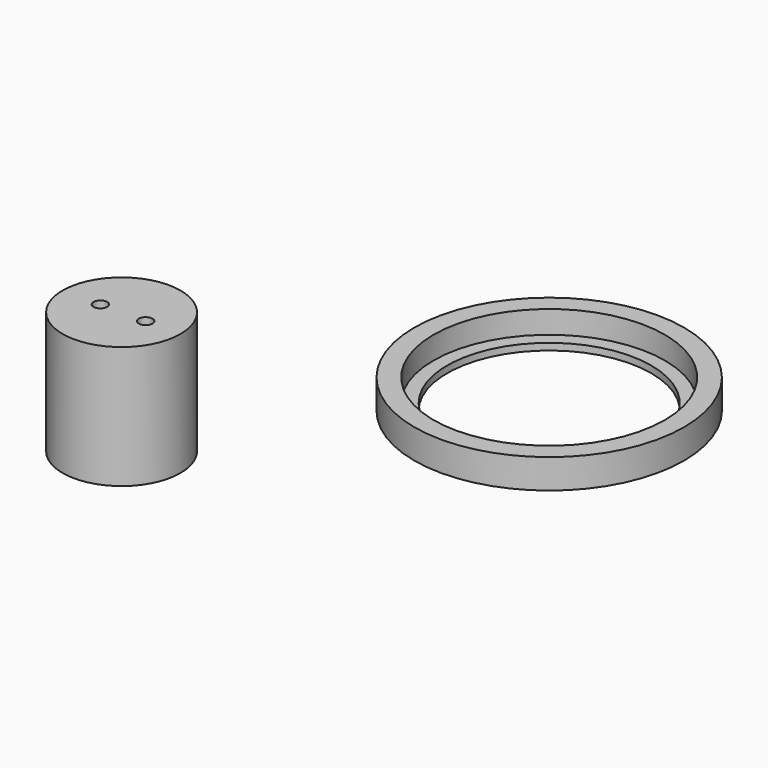
from build123d import *

# Parameters (mm, degrees)
F0_R     = 29.75
F0_R_2   = 22.5
F1_DEPTH = 1.5
F2_R     = 29.75
F2_R_2   = 25.5
F3_DEPTH = 5
F4_R     = 13
F4_R_2   = 11.3
F5_DEPTH = 25
F6_R     = 13
F7_DEPTH = 2
F8_R     = 1.5
F9_DEPTH = 2


with BuildPart() as f1:
    # F0 (on Top) → F1 (new body)
    with BuildSketch(Plane.XY):
        Circle(F0_R)
        Circle(F0_R_2, mode=Mode.SUBTRACT)
    extrude(amount=F1_DEPTH)

    # F2 (on face) → F3 (join)
    with BuildSketch(Plane.XY.offset(1.5)):
        Circle(F2_R)
        Circle(F2_R_2, mode=Mode.SUBTRACT)
    extrude(amount=F3_DEPTH)


with BuildPart() as f5:
    # F4 (on Top) → F5 (new body)
    with BuildSketch(Plane.XY):
        with Locations((-48.094667, -57.792641)):
            Circle(F4_R)
        with Locations((-48.094667, -57.792641)):
            Circle(F4_R_2, mode=Mode.SUBTRACT)
    extrude(amount=F5_DEPTH)

    # F6 (on face) → F7 (join)
    with BuildSketch(Plane.XY.offset(25)):
        with Locations((-48.094667, -57.792641)):
            Circle(F6_R)
    extrude(amount=F7_DEPTH)

    # F8 (on face) → F9 (cut, through all)
    with BuildSketch(Plane.XY.offset(27)):
        with Locations((-42.769095, -57.792641)):
            Circle(F8_R)
        with Locations((-52.769095, -57.792641)):
            Circle(F8_R)
    extrude(amount=-F9_DEPTH, mode=Mode.SUBTRACT)


solid = Compound([f1.part, f5.part])
